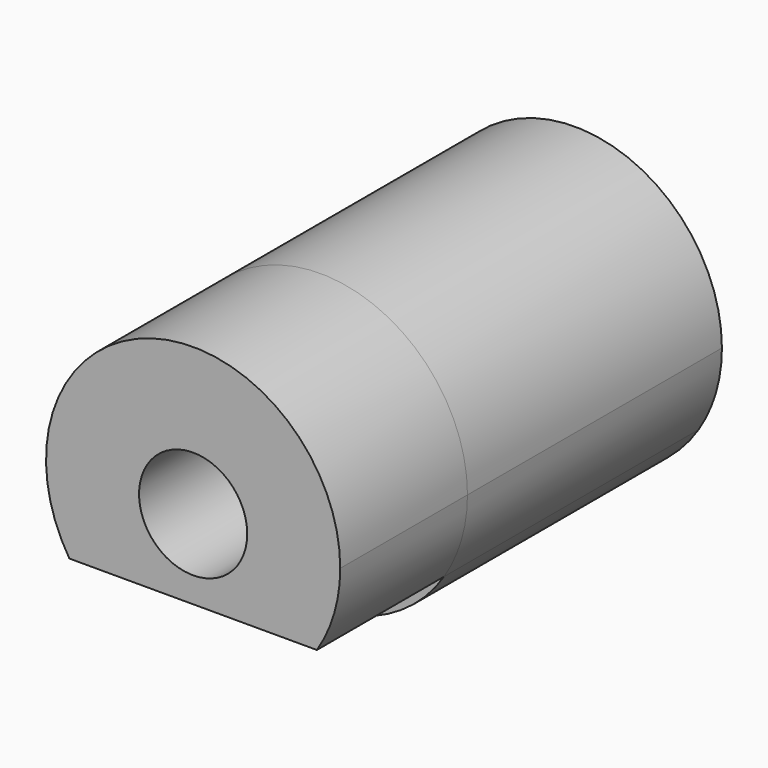
from build123d import *

# Parameters (mm, degrees)
F0_R     = 3.4
F1_DEPTH = 20
F2_DEPTH = 10


with BuildPart() as f1:
    # F0 (on Front) → F1 (new body)
    with BuildSketch(Plane.XZ):
        with BuildLine():
            ThreePointArc((7.782191, -5), (8.875465, -2.605497), (9.25, 0))
            ThreePointArc((9.25, 0), (-2.605497, 8.875465), (-7.782191, -5))
            Line((-7.782191, -5), (7.782191, -5))
        make_face()
        Circle(F0_R, mode=Mode.SUBTRACT)
        with BuildLine():
            Line((7.782191, -5), (-7.782191, -5))
            ThreePointArc((-7.782191, -5), (0, -9.25), (7.782191, -5))
        make_face()
    extrude(amount=-F1_DEPTH)


with BuildPart() as f2:
    # F0 (on Front) → F2 (new body)
    with BuildSketch(Plane.XZ):
        with BuildLine():
            ThreePointArc((7.782191, -5), (8.875465, -2.605497), (9.25, 0))
            ThreePointArc((9.25, 0), (-2.605497, 8.875465), (-7.782191, -5))
            Line((-7.782191, -5), (7.782191, -5))
        make_face()
        Circle(F0_R, mode=Mode.SUBTRACT)
    extrude(amount=F2_DEPTH)


solid = Compound([f1.part, f2.part])
